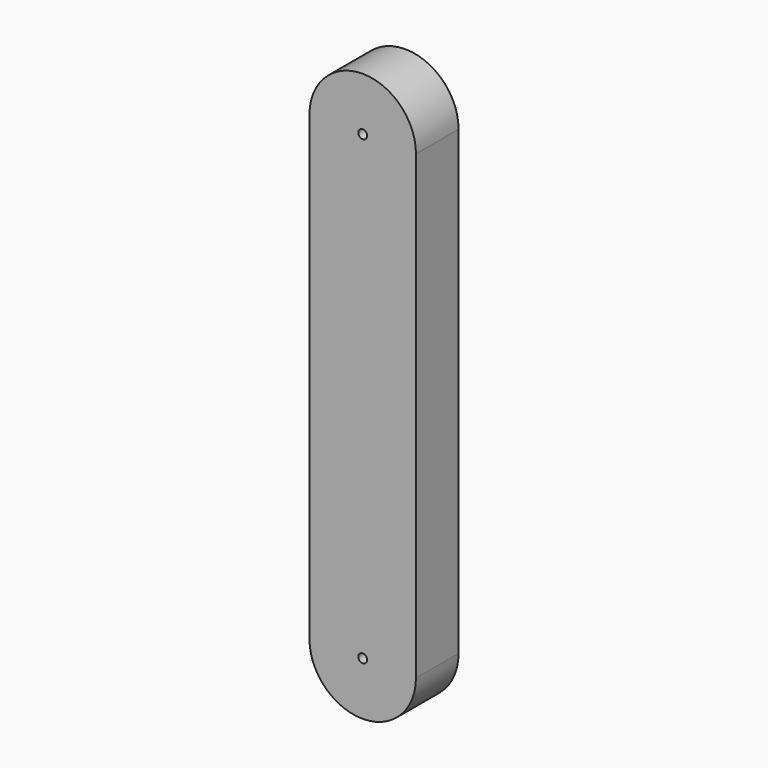
from build123d import *

# Parameters (mm, degrees)
F0_R     = 3.175
F1_DEPTH = 38.1


with BuildPart() as f1:
    # F0 (on Front) → F1 (new body)
    with BuildSketch(Plane.XZ):
        with BuildLine():
            ThreePointArc((-38.1, 0), (0, -38.1), (38.1, 0))
            ThreePointArc((38.1, 0), (0, 38.1), (-38.1, 0))
        make_face()
        Circle(F0_R, mode=Mode.SUBTRACT)
        with BuildLine():
            ThreePointArc((-38.1, 0), (0, 38.1), (38.1, 0))
            Line((38.1, 0), (38.1, 330.2))
            ThreePointArc((38.1, 330.2), (0, 292.1), (-38.1, 330.2))
            Line((-38.1, 330.2), (-38.1, 0))
        make_face()
        with BuildLine():
            ThreePointArc((-38.1, 330.2), (0, 292.1), (38.1, 330.2))
            ThreePointArc((38.1, 330.2), (0, 368.3), (-38.1, 330.2))
        make_face()
        with Locations((0, 330.2)):
            Circle(F0_R, mode=Mode.SUBTRACT)
    extrude(amount=F1_DEPTH)


solid = f1.part
